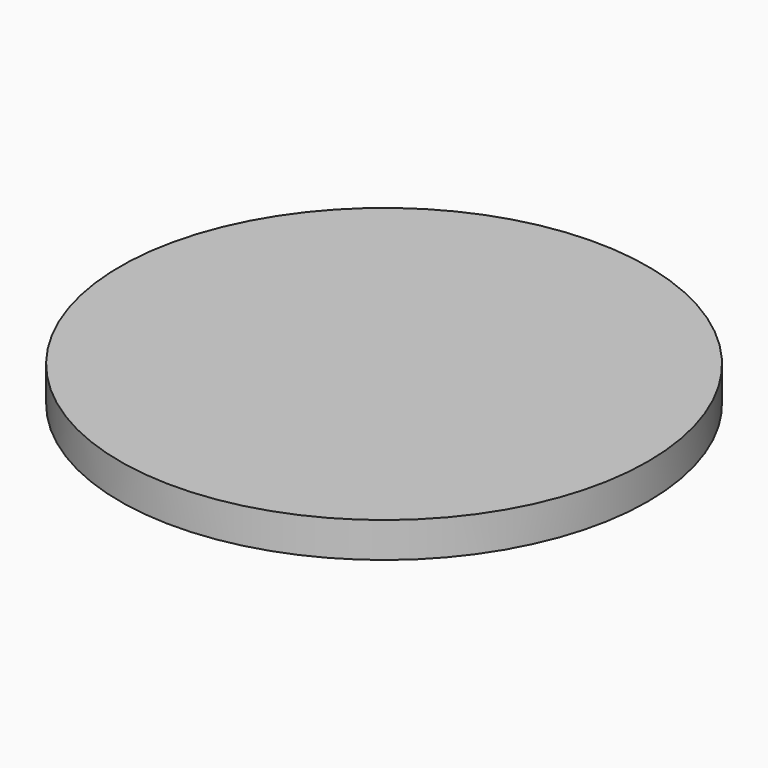
from build123d import *

# Parameters (mm, degrees)
F0_R     = 7.5
F0_R_2   = 1.5875
F1_DEPTH = 2.5
F2_R     = 15
F2_R_2   = 7.5
F3_DEPTH = 2


with BuildPart() as f1:
    # F0 (on Top) → F1 (new body)
    with BuildSketch(Plane.XY):
        Circle(F0_R)
        Circle(F0_R_2, mode=Mode.SUBTRACT)
        Circle(F0_R)
        Circle(F0_R_2, mode=Mode.SUBTRACT)
    extrude(amount=F1_DEPTH)

    # F2 (on face) → F3 (join)
    with BuildSketch(Plane.XY.offset(2.5)):
        Circle(F2_R)
        Circle(F2_R_2, mode=Mode.SUBTRACT)
        Circle(F2_R)
    extrude(amount=F3_DEPTH)


solid = f1.part
